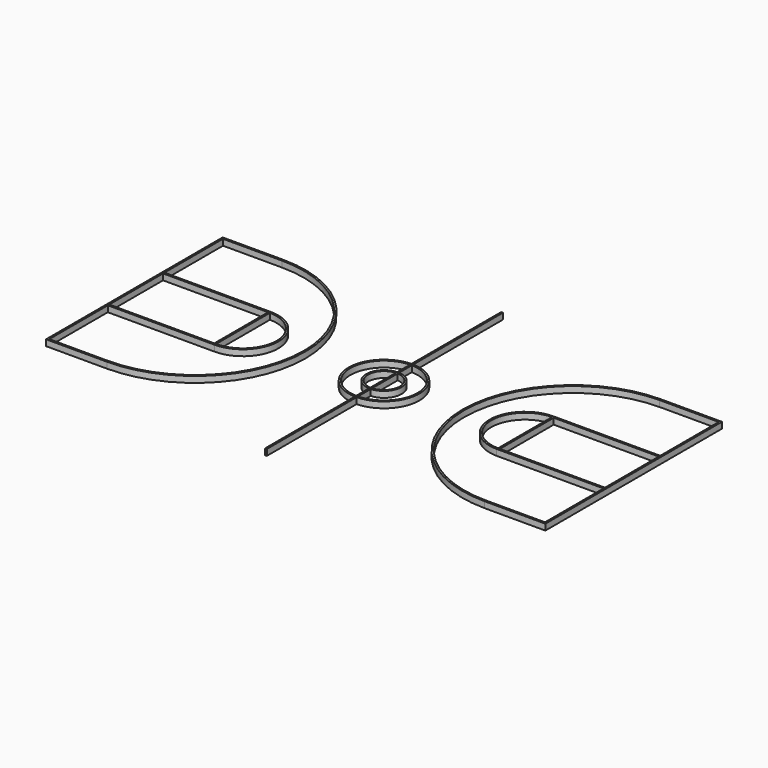
from build123d import *

# Parameters (mm, degrees)
F0_W     = 254
F0_H     = 7.62
F0_W_2   = 7.62
F0_H_2   = 289.56
F0_W_3   = 452.12
F1_DEPTH = 0.762
F2_DEPTH = 25.4
F3_DEPTH = 25.4
F4_DEPTH = 25.4


with BuildPart() as f1:
    # F0 (on Top) → F1 (new body)
    with BuildSketch(Plane.XY):
        with BuildLine():
            Line((-1066.8, -467.36), (-1066.8, -474.98))
            Line((-1066.8, -474.98), (-812.8, -474.98))
            ThreePointArc((-812.8, -474.98), (-337.82, 0), (-812.8, 474.98))
            Line((-812.8, 474.98), (-812.8, 467.36))
            ThreePointArc((-812.8, 467.36), (-345.44, 0), (-812.8, -467.36))
            Line((-812.8, -467.36), (-1066.8, -467.36))
        make_face()
        with Locations((-939.8, 471.17)):
            Rectangle(F0_W, F0_H)
        with Locations((-610.87, 0)):
            Rectangle(F0_W_2, F0_H_2)
        with Locations((-840.74, 148.59)):
            Rectangle(F0_W_3, F0_H)
        with Locations((-610.87, 148.59)):
            Rectangle(F0_W_2, F0_H)
        with BuildLine():
            Line((-607.06, -144.78), (-607.06, -152.4))
            ThreePointArc((-607.06, -152.4), (-454.66, 0), (-607.06, 152.4))
            Line((-607.06, 152.4), (-607.06, 144.78))
            ThreePointArc((-607.06, 144.78), (-462.28, 0), (-607.06, -144.78))
        make_face()
        with Locations((-840.74, -148.59)):
            Rectangle(F0_W_3, F0_H)
        with Locations((-610.87, -148.59)):
            Rectangle(F0_W_2, F0_H)
        Polygon((-1074.42, -474.98), (-1066.8, -474.98), (-1066.8, -467.36), (-1066.8, -152.4), (-1066.8, -144.78), (-1066.8, 144.78), (-1066.8, 152.4), (-1066.8, 467.36), (-1066.8, 474.98), (-1074.42, 474.98), align=None)
    extrude(amount=F1_DEPTH)

    # F2 (add): a face of the model
    f2_faces = [f1.faces().sort_by_distance(p)[0] for p in [
        (-939.8, -468.5620830094, 0.762),
    ]]
    extrude(f2_faces, amount=F2_DEPTH)


with BuildPart() as f1b:
    # F0 (on Top) → F1, piece 2 (new body)
    with BuildSketch(Plane.XY):
        with BuildLine():
            ThreePointArc((-3.81, 76.1046903942), (-76.2, 0), (-3.81, -76.1046903942))
            Line((-3.81, -76.1046903942), (-3.81, -68.4740848789))
            ThreePointArc((-3.81, -68.4740848789), (-68.58, 0), (-3.81, 68.4740848789))
            Line((-3.81, 68.4740848789), (-3.81, 76.1046903942))
        make_face()
        with BuildLine():
            Line((3.81, -68.4740848789), (3.81, -76.1046903942))
            ThreePointArc((3.81, -76.1046903942), (55.212145403, -52.5172257455), (76.2, 0))
            ThreePointArc((76.2, 0), (55.212145403, 52.5172257455), (3.81, 76.1046903942))
            Line((3.81, 76.1046903942), (3.81, 68.4740848789))
            ThreePointArc((3.81, 68.4740848789), (49.8222149247, 47.1270973008), (68.58, 0))
            ThreePointArc((68.58, 0), (49.8222149247, -47.1270973008), (3.81, -68.4740848789))
        make_face()
        with BuildLine():
            ThreePointArc((3.81, 76.1046903942), (1.9055959646, 76.176168872), (0, 76.2))
            Line((0, 76.2), (0, 68.58))
            ThreePointArc((0, 68.58), (1.9057359479, 68.553516106), (3.81, 68.4740848789))
            Line((3.81, 68.4740848789), (3.81, 76.1046903942))
        make_face()
        with BuildLine():
            ThreePointArc((0, 76.2), (-1.9055959646, 76.176168872), (-3.81, 76.1046903942))
            Line((-3.81, 76.1046903942), (-3.81, 68.4740848789))
            ThreePointArc((-3.81, 68.4740848789), (-1.9057359479, 68.553516106), (0, 68.58))
            Line((0, 68.58), (0, 76.2))
        make_face()
        with BuildLine():
            ThreePointArc((-3.81, 152.3523675563), (-152.4, 0), (-3.81, -152.3523675563))
            Line((-3.81, -152.3523675563), (-3.81, -144.7298597388))
            ThreePointArc((-3.81, -144.7298597388), (-144.78, 0), (-3.81, 144.7298597388))
            Line((-3.81, 144.7298597388), (-3.81, 152.3523675563))
        make_face()
        with BuildLine():
            ThreePointArc((0, 152.4), (-1.9051488688, 152.3880914238), (-3.81, 152.3523675563))
            Line((-3.81, 152.3523675563), (-3.81, 144.7298597388))
            ThreePointArc((-3.81, 144.7298597388), (-1.9051649565, 144.767464392), (0, 144.78))
            Line((0, 144.78), (0, 152.4))
        make_face()
        with BuildLine():
            ThreePointArc((3.81, 152.3523675563), (1.9051488688, 152.3880914238), (0, 152.4))
            Line((0, 152.4), (0, 144.78))
            ThreePointArc((0, 144.78), (1.9051649565, 144.767464392), (3.81, 144.7298597388))
            Line((3.81, 144.7298597388), (3.81, 152.3523675563))
        make_face()
        with BuildLine():
            Line((3.81, -144.7298597388), (3.81, -152.3523675563))
            ThreePointArc((3.81, -152.3523675563), (109.1017965022, -106.4075091335), (152.4, 0))
            ThreePointArc((152.4, 0), (109.1017965022, 106.4075091335), (3.81, 152.3523675563))
            Line((3.81, 152.3523675563), (3.81, 144.7298597388))
            ThreePointArc((3.81, 144.7298597388), (103.7132108268, 101.0189007067), (144.78, 0))
            ThreePointArc((144.78, 0), (103.7132108268, -101.0189007067), (3.81, -144.7298597388))
        make_face()
        with BuildLine():
            Line((-3.81, -68.4740848789), (-3.81, -76.1046903942))
            ThreePointArc((-3.81, -76.1046903942), (-1.9055959646, -76.176168872), (0, -76.2))
            Line((0, -76.2), (0, -68.58))
            ThreePointArc((0, -68.58), (-1.9057359479, -68.553516106), (-3.81, -68.4740848789))
        make_face()
        with BuildLine():
            Line((0, -68.58), (0, -76.2))
            ThreePointArc((0, -76.2), (1.9055959646, -76.176168872), (3.81, -76.1046903942))
            Line((3.81, -76.1046903942), (3.81, -68.4740848789))
            ThreePointArc((3.81, -68.4740848789), (1.9057359479, -68.553516106), (0, -68.58))
        make_face()
        with BuildLine():
            Line((-3.81, -144.7298597388), (-3.81, -152.3523675563))
            ThreePointArc((-3.81, -152.3523675563), (-1.9051488688, -152.3880914238), (0, -152.4))
            Line((0, -152.4), (0, -144.78))
            ThreePointArc((0, -144.78), (-1.9051649565, -144.767464392), (-3.81, -144.7298597388))
        make_face()
        with BuildLine():
            Line((0, -144.78), (0, -152.4))
            ThreePointArc((0, -152.4), (1.9051488688, -152.3880914238), (3.81, -152.3523675563))
            Line((3.81, -152.3523675563), (3.81, -144.7298597388))
            ThreePointArc((3.81, -144.7298597388), (1.9051649565, -144.767464392), (0, -144.78))
        make_face()
        with BuildLine():
            Line((-3.81, 635), (-3.81, 152.3523675563))
            ThreePointArc((-3.81, 152.3523675563), (-1.9051488688, 152.3880914238), (0, 152.4))
            Line((0, 152.4), (0, 635))
            Line((0, 635), (-3.81, 635))
        make_face()
        with BuildLine():
            Line((0, 635), (0, 152.4))
            ThreePointArc((0, 152.4), (1.9051488688, 152.3880914238), (3.81, 152.3523675563))
            Line((3.81, 152.3523675563), (3.81, 635))
            Line((3.81, 635), (0, 635))
        make_face()
        with BuildLine():
            ThreePointArc((0, 144.78), (-1.9051649565, 144.767464392), (-3.81, 144.7298597388))
            Line((-3.81, 144.7298597388), (-3.81, 76.1046903942))
            ThreePointArc((-3.81, 76.1046903942), (-1.9055959646, 76.176168872), (0, 76.2))
            Line((0, 76.2), (0, 144.78))
        make_face()
        with BuildLine():
            ThreePointArc((3.81, 144.7298597388), (1.9051649565, 144.767464392), (0, 144.78))
            Line((0, 144.78), (0, 76.2))
            ThreePointArc((0, 76.2), (1.9055959646, 76.176168872), (3.81, 76.1046903942))
            Line((3.81, 76.1046903942), (3.81, 144.7298597388))
        make_face()
        with BuildLine():
            Line((-3.81, 68.4740848789), (-3.81, -68.4740848789))
            ThreePointArc((-3.81, -68.4740848789), (-1.9057359479, -68.553516106), (0, -68.58))
            Line((0, -68.58), (0, 68.58))
            ThreePointArc((0, 68.58), (-1.9057359479, 68.553516106), (-3.81, 68.4740848789))
        make_face()
        with BuildLine():
            Line((0, 68.58), (0, -68.58))
            ThreePointArc((0, -68.58), (1.9057359479, -68.553516106), (3.81, -68.4740848789))
            Line((3.81, -68.4740848789), (3.81, 68.4740848789))
            ThreePointArc((3.81, 68.4740848789), (1.9057359479, 68.553516106), (0, 68.58))
        make_face()
        with BuildLine():
            Line((-3.81, -76.1046903942), (-3.81, -144.7298597388))
            ThreePointArc((-3.81, -144.7298597388), (-1.9051649565, -144.767464392), (0, -144.78))
            Line((0, -144.78), (0, -76.2))
            ThreePointArc((0, -76.2), (-1.9055959646, -76.176168872), (-3.81, -76.1046903942))
        make_face()
        with BuildLine():
            Line((0, -76.2), (0, -144.78))
            ThreePointArc((0, -144.78), (1.9051649565, -144.767464392), (3.81, -144.7298597388))
            Line((3.81, -144.7298597388), (3.81, -76.1046903942))
            ThreePointArc((3.81, -76.1046903942), (1.9055959646, -76.176168872), (0, -76.2))
        make_face()
        with BuildLine():
            Line((-3.81, -152.3523675563), (-3.81, -635))
            Line((-3.81, -635), (0, -635))
            Line((0, -635), (0, -152.4))
            ThreePointArc((0, -152.4), (-1.9051488688, -152.3880914238), (-3.81, -152.3523675563))
        make_face()
        with BuildLine():
            Line((0, -152.4), (0, -635))
            Line((0, -635), (3.81, -635))
            Line((3.81, -635), (3.81, -152.3523675563))
            ThreePointArc((3.81, -152.3523675563), (1.9051488688, -152.3880914238), (0, -152.4))
        make_face()
    extrude(amount=F1_DEPTH)

    # F3 (add): a face of the model
    f3_faces = [f1b.faces().sort_by_distance(p)[0] for p in [
        (0, -3e-10, 0.762),
    ]]
    extrude(f3_faces, amount=F3_DEPTH)


with BuildPart() as f1c:
    # F0 (on Top) → F1, piece 3 (new body)
    with BuildSketch(Plane.XY):
        with BuildLine():
            Line((812.8, -474.98), (1066.8, -474.98))
            Line((1066.8, -474.98), (1066.8, -467.36))
            Line((1066.8, -467.36), (812.8, -467.36))
            ThreePointArc((812.8, -467.36), (345.44, 0), (812.8, 467.36))
            Line((812.8, 467.36), (1066.8, 467.36))
            Line((1066.8, 467.36), (1066.8, 474.98))
            Line((1066.8, 474.98), (812.8, 474.98))
            ThreePointArc((812.8, 474.98), (337.82, 0), (812.8, -474.98))
        make_face()
        with Locations((840.74, 148.59)):
            Rectangle(F0_W_3, F0_H)
        with Locations((610.87, 148.59)):
            Rectangle(F0_W_2, F0_H)
        with Locations((610.87, 0)):
            Rectangle(F0_W_2, F0_H_2)
        with BuildLine():
            ThreePointArc((607.06, 152.4), (454.66, 0), (607.06, -152.4))
            Line((607.06, -152.4), (607.06, -144.78))
            ThreePointArc((607.06, -144.78), (462.28, 0), (607.06, 144.78))
            Line((607.06, 144.78), (607.06, 152.4))
        make_face()
        with Locations((840.74, -148.59)):
            Rectangle(F0_W_3, F0_H)
        with Locations((610.87, -148.59)):
            Rectangle(F0_W_2, F0_H)
        Polygon((1066.8, -467.36), (1066.8, -474.98), (1074.42, -474.98), (1074.42, 474.98), (1066.8, 474.98), (1066.8, 467.36), (1066.8, 152.4), (1066.8, 144.78), (1066.8, -144.78), (1066.8, -152.4), align=None)
    extrude(amount=F1_DEPTH)

    # F4 (add): a face of the model
    f4_faces = [f1c.faces().sort_by_distance(p)[0] for p in [
        (943.61, -473.7779169906, 0.762),
    ]]
    extrude(f4_faces, amount=F4_DEPTH)


solid = Compound([f1.part, f1b.part, f1c.part])
